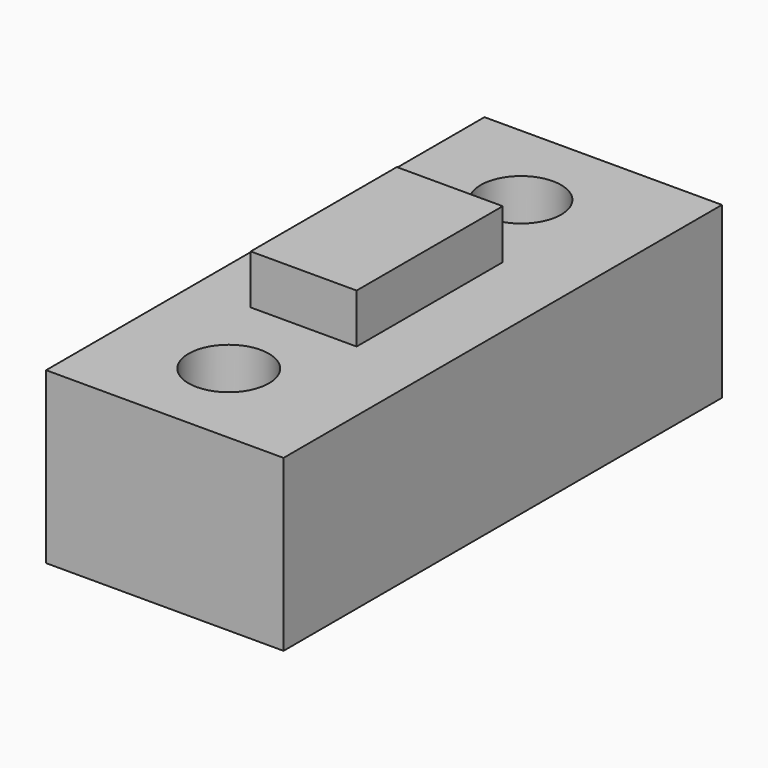
from build123d import *

# Parameters (mm, degrees)
BOX056_W                  = 10
BOX056_H                  = 4
BOX056_DEPTH              = 5.8
CYLINDER077_R             = 2.2
CYLINDER077_DEPTH         = 25
CYLINDER076_R             = 2.2
CYLINDER076_DEPTH         = 25
CYLINDER075_R             = 4
CYLINDER075_DEPTH         = 6
BOX055_W                  = 30
BOX055_H                  = 9.3
BOX055_DEPTH              = 13
FUSION046_ROLL_ANGLE      = 90
FUSION046_PLACEMENT_ANGLE = -90


with BuildPart() as quader035:
    # Box056 → Box056 (new body)
    with BuildSketch(Plane(origin=(-5, 8, 2), x_dir=(1, 0, 0), z_dir=(0, 0, 1))):
        with Locations((5, 2)):
            Rectangle(BOX056_W, BOX056_H)
    extrude(amount=BOX056_DEPTH)


with BuildPart() as zylinder066:
    # Cylinder077 → Cylinder077 (new body)
    with BuildSketch(Plane(origin=(-10, 12, 5), x_dir=(1, 0, 0), z_dir=(0, -1, 0))):
        Circle(CYLINDER077_R)
    extrude(amount=CYLINDER077_DEPTH)


with BuildPart() as zylinder065:
    # Cylinder076 → Cylinder076 (new body)
    with BuildSketch(Plane(origin=(10, 12, 5), x_dir=(1, 0, 0), z_dir=(0, -1, 0))):
        Circle(CYLINDER076_R)
    extrude(amount=CYLINDER076_DEPTH)


with BuildPart() as zylinder064:
    # Cylinder075 → Cylinder075 (new body)
    with BuildSketch(Plane.XY.offset(5.8)):
        Circle(CYLINDER075_R)
    extrude(amount=CYLINDER075_DEPTH)


with BuildPart() as y_drive_mount004:
    # Box055 → Box055 (new body)
    with BuildSketch(Plane(origin=(-15, 0, -2), x_dir=(1, 0, 0), z_dir=(0, 0, 1))):
        with Locations((15, 4.65)):
            Rectangle(BOX055_W, BOX055_H)
    extrude(amount=BOX055_DEPTH)

    # Cut084: cut Zylinder064
    add(zylinder064.part, mode=Mode.SUBTRACT)

    # Cut085: cut Zylinder065
    add(zylinder065.part, mode=Mode.SUBTRACT)

    # Cut086: cut Zylinder066
    add(zylinder066.part, mode=Mode.SUBTRACT)

    # Fusion046: union Quader035
    add(quader035.part)


with BuildPart() as y_drive_mount004_1:
    # Fusion046 roll: moved
    add(y_drive_mount004.part.rotate(Axis((0, 0, 0), (1, 0, 0)), FUSION046_ROLL_ANGLE))


with BuildPart() as y_drive_mount004_2:
    # Fusion046 placement: moved
    add(y_drive_mount004_1.part.moved(Location((403.75, 652.85, 53.2))).rotate(Axis((403.75, 652.85, 53.2), (0, 0, 1)), FUSION046_PLACEMENT_ANGLE))


solid = y_drive_mount004_2.part
